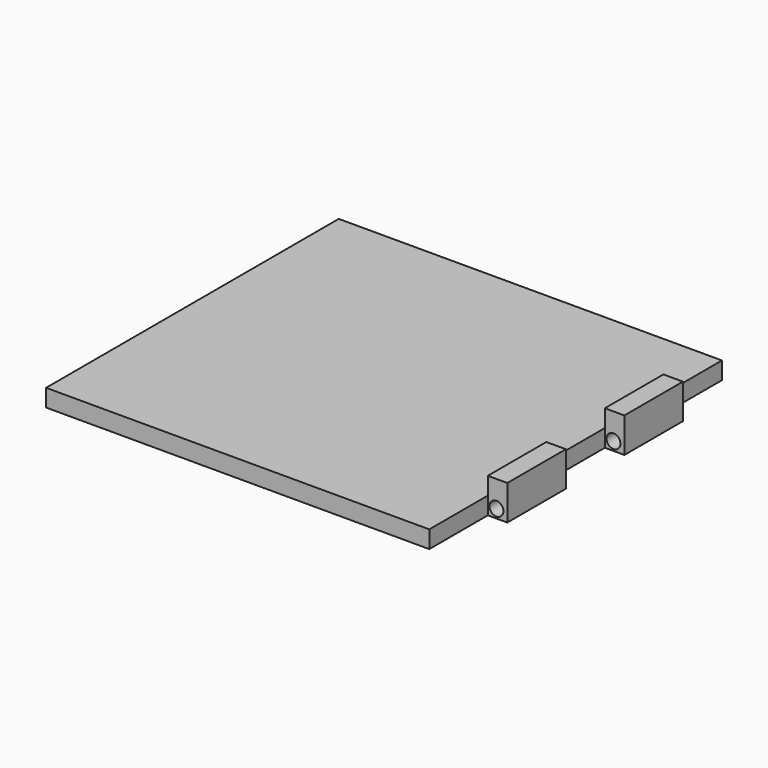
from build123d import *

# Parameters (mm, degrees)
F1_DEPTH = 5
F3_D     = 4
F4_W     = 5.6
F4_H     = 21
F5_DEPTH = 5


with BuildPart() as f1:
    # F0 (on Top) → F1 (new body)
    with BuildSketch(Plane.XY):
        Polygon((52.2, 31.5), (52.2, 52.5), (-57.8, 52.5), (-57.8, -52.5), (52.2, -52.5), (52.2, -31.5), (57.8, -31.5), (57.8, -10.5), (52.2, -10.5), (52.2, 10.5), (57.8, 10.5), (57.8, 31.5), align=None)
    extrude(amount=F1_DEPTH)

    # F3 (through all)
    with Locations(Plane.XZ.offset(31.5)):
        with Locations((54.670613, 2.486458)):
            Hole(F3_D / 2)

    # F4 (on face) → F5 (join)
    with BuildSketch(Plane.XY.offset(5)):
        with Locations((55, 21)):
            Rectangle(F4_W, F4_H)
        with Locations((55, -21)):
            Rectangle(F4_W, F4_H)
    extrude(amount=F5_DEPTH)


solid = f1.part
